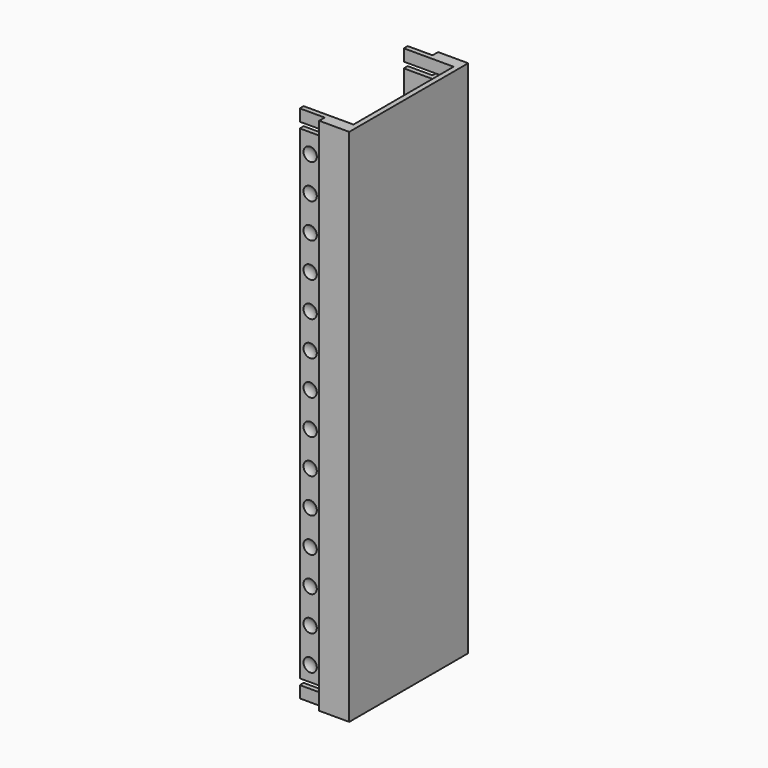
from build123d import *

# Parameters (mm, degrees)
EXTRUDE012_DEPTH           = 4
EXTRUDE012_PLACEMENT_ANGLE = 90
EXTRUDE013_DEPTH           = 4
EXTRUDE013_PLACEMENT_ANGLE = 180
EXTRUDE010_DEPTH           = 4
EXTRUDE010_PLACEMENT_ANGLE = 90
EXTRUDE011_DEPTH           = 4
EXTRUDE011_PLACEMENT_ANGLE = 180
BOX010_W                   = 10
BOX010_H                   = 10
BOX010_DEPTH               = 10
BOX014_W                   = 10
BOX014_H                   = 10
BOX014_DEPTH               = 10
BOX016_W                   = 10
BOX016_H                   = 10
BOX016_DEPTH               = 10
BOX019_W                   = 10
BOX019_H                   = 10
BOX019_DEPTH               = 10
BOX015_W                   = 10
BOX015_H                   = 10
BOX015_DEPTH               = 10
BOX012_W                   = 10
BOX012_H                   = 10
BOX012_DEPTH               = 10
BOX017_W                   = 10
BOX017_H                   = 10
BOX017_DEPTH               = 10
BOX018_W                   = 10
BOX018_H                   = 10
BOX018_DEPTH               = 10
BOX020_W                   = 10
BOX020_H                   = 10
BOX020_DEPTH               = 10
BOX009_W                   = 10
BOX009_H                   = 10
BOX009_DEPTH               = 10
BOX011_W                   = 10
BOX011_H                   = 10
BOX011_DEPTH               = 10
BOX013_W                   = 10
BOX013_H                   = 10
BOX013_DEPTH               = 10
BOX021_W                   = 10
BOX021_H                   = 10
BOX021_DEPTH               = 10
BOX008_W                   = 10
BOX008_H                   = 10
BOX008_DEPTH               = 10
BOX043_W                   = 10
BOX043_H                   = 10
BOX043_DEPTH               = 10
BOX046_W                   = 10
BOX046_H                   = 10
BOX046_DEPTH               = 10
BOX041_W                   = 10
BOX041_H                   = 10
BOX041_DEPTH               = 10
BOX037_W                   = 10
BOX037_H                   = 10
BOX037_DEPTH               = 10
BOX038_W                   = 10
BOX038_H                   = 10
BOX038_DEPTH               = 10
BOX047_W                   = 10
BOX047_H                   = 10
BOX047_DEPTH               = 10
BOX036_W                   = 10
BOX036_H                   = 10
BOX036_DEPTH               = 10
BOX039_W                   = 10
BOX039_H                   = 10
BOX039_DEPTH               = 10
BOX040_W                   = 10
BOX040_H                   = 10
BOX040_DEPTH               = 10
BOX042_W                   = 10
BOX042_H                   = 10
BOX042_DEPTH               = 10
BOX049_W                   = 10
BOX049_H                   = 10
BOX049_DEPTH               = 10
BOX048_W                   = 10
BOX048_H                   = 10
BOX048_DEPTH               = 10
BOX045_W                   = 10
BOX045_H                   = 10
BOX045_DEPTH               = 10
BOX044_W                   = 10
BOX044_H                   = 10
BOX044_DEPTH               = 10
FUSION011_PLACEMENT_ANGLE  = 180
EXTRUDE005_DEPTH           = 140
EXTRUDE006_DEPTH           = 3.4
EXTRUDE001_DEPTH           = 3.4
EXTRUDE002_DEPTH           = 150.2


with BuildPart() as extrude012:
    # Sketch011 → Extrude012 (new body)
    with BuildSketch(Plane.XY):
        Polygon((0, 0), (5, 0), (0, 5), align=None)
    extrude(amount=EXTRUDE012_DEPTH)


with BuildPart() as extrude012_1:
    # Extrude012 placement: moved
    add(extrude012.part.moved(Location((10, -19, 1.6))).rotate(Axis((10, -19, 1.6), (0, 0, 1)), EXTRUDE012_PLACEMENT_ANGLE))


with BuildPart() as obj1:
    # Sketch011 → Extrude013 (new body)
    with BuildSketch(Plane.XY):
        Polygon((0, 0), (5, 0), (0, 5), align=None)
    extrude(amount=EXTRUDE013_DEPTH)


with BuildPart() as obj1_1:
    # Extrude013 placement: moved
    add(obj1.part.moved(Location((10, 19, 1.6))).rotate(Axis((10, 19, 1.6), (0, 0, 1)), EXTRUDE013_PLACEMENT_ANGLE))

    # Fusion025: union Extrude012
    add(extrude012_1.part)


with BuildPart() as obj1_2:
    # Fusion025 placement: moved
    add(obj1_1.part.moved(Location((0, 0, 136))))


with BuildPart() as extrude010:
    # Sketch010 (on Cut) → Extrude010 (new body)
    with BuildSketch(Plane.XY):
        Polygon((0, 0), (5, 0), (0, 5), align=None)
    extrude(amount=EXTRUDE010_DEPTH)


with BuildPart() as extrude010_1:
    # Extrude010 placement: moved
    add(extrude010.part.moved(Location((10, -19, 1.6))).rotate(Axis((10, -19, 1.6), (0, 0, 1)), EXTRUDE010_PLACEMENT_ANGLE))


with BuildPart() as obj2:
    # Sketch010 (on Cut) → Extrude011 (new body)
    with BuildSketch(Plane.XY):
        Polygon((0, 0), (5, 0), (0, 5), align=None)
    extrude(amount=EXTRUDE011_DEPTH)


with BuildPart() as obj2_1:
    # Extrude011 placement: moved
    add(obj2.part.moved(Location((10, 19, 1.6))).rotate(Axis((10, 19, 1.6), (0, 0, 1)), EXTRUDE011_PLACEMENT_ANGLE))

    # Fusion019: union Extrude010
    add(extrude010_1.part)


with BuildPart() as cube008:
    # Box010 → Box010 (new body)
    with BuildSketch(Plane(origin=(-6, 20.5, 0), x_dir=(1, 0, 0), z_dir=(0, 0, 1))):
        with Locations((5, 5)):
            Rectangle(BOX010_W, BOX010_H)
    extrude(amount=BOX010_DEPTH)


with BuildPart() as obj3:
    # Sphere003 → Sphere003 (revolve)
    with BuildSketch(Plane(origin=(-1, 21.8, 6), x_dir=(1, 0, 0), z_dir=(0, -1, 0))):
        with BuildLine():
            ThreePointArc((0, -3), (3, 0), (0, 3))
            Line((0, 3), (0, -3))
        make_face()
    revolve(axis=Axis((-1, 21.8, 6), (0, 0, 1)))

    # Cut004: cut Cube008
    add(cube008.part, mode=Mode.SUBTRACT)


with BuildPart() as obj3_1:
    # Cut004 placement: moved
    add(obj3.part.moved(Location((0, 0, 20))))


with BuildPart() as cube012:
    # Box014 → Box014 (new body)
    with BuildSketch(Plane(origin=(-6, 20.5, 0), x_dir=(1, 0, 0), z_dir=(0, 0, 1))):
        with Locations((5, 5)):
            Rectangle(BOX014_W, BOX014_H)
    extrude(amount=BOX014_DEPTH)


with BuildPart() as obj4:
    # Sphere007 → Sphere007 (revolve)
    with BuildSketch(Plane(origin=(-1, 21.8, 6), x_dir=(1, 0, 0), z_dir=(0, -1, 0))):
        with BuildLine():
            ThreePointArc((0, -3), (3, 0), (0, 3))
            Line((0, 3), (0, -3))
        make_face()
    revolve(axis=Axis((-1, 21.8, 6), (0, 0, 1)))

    # Cut008: cut Cube012
    add(cube012.part, mode=Mode.SUBTRACT)


with BuildPart() as obj4_1:
    # Cut008 placement: moved
    add(obj4.part.moved(Location((0, 0, 60))))


with BuildPart() as cube014:
    # Box016 → Box016 (new body)
    with BuildSketch(Plane(origin=(-6, 20.5, 0), x_dir=(1, 0, 0), z_dir=(0, 0, 1))):
        with Locations((5, 5)):
            Rectangle(BOX016_W, BOX016_H)
    extrude(amount=BOX016_DEPTH)


with BuildPart() as obj5:
    # Sphere009 → Sphere009 (revolve)
    with BuildSketch(Plane(origin=(-1, 21.8, 6), x_dir=(1, 0, 0), z_dir=(0, -1, 0))):
        with BuildLine():
            ThreePointArc((0, -3), (3, 0), (0, 3))
            Line((0, 3), (0, -3))
        make_face()
    revolve(axis=Axis((-1, 21.8, 6), (0, 0, 1)))

    # Cut010: cut Cube014
    add(cube014.part, mode=Mode.SUBTRACT)


with BuildPart() as obj5_1:
    # Cut010 placement: moved
    add(obj5.part.moved(Location((0, 0, 80))))


with BuildPart() as cube017:
    # Box019 → Box019 (new body)
    with BuildSketch(Plane(origin=(-6, 20.5, 0), x_dir=(1, 0, 0), z_dir=(0, 0, 1))):
        with Locations((5, 5)):
            Rectangle(BOX019_W, BOX019_H)
    extrude(amount=BOX019_DEPTH)


with BuildPart() as obj6:
    # Sphere012 → Sphere012 (revolve)
    with BuildSketch(Plane(origin=(-1, 21.8, 6), x_dir=(1, 0, 0), z_dir=(0, -1, 0))):
        with BuildLine():
            ThreePointArc((0, -3), (3, 0), (0, 3))
            Line((0, 3), (0, -3))
        make_face()
    revolve(axis=Axis((-1, 21.8, 6), (0, 0, 1)))

    # Cut013: cut Cube017
    add(cube017.part, mode=Mode.SUBTRACT)


with BuildPart() as obj6_1:
    # Cut013 placement: moved
    add(obj6.part.moved(Location((0, 0, 110))))


with BuildPart() as cube013:
    # Box015 → Box015 (new body)
    with BuildSketch(Plane(origin=(-6, 20.5, 0), x_dir=(1, 0, 0), z_dir=(0, 0, 1))):
        with Locations((5, 5)):
            Rectangle(BOX015_W, BOX015_H)
    extrude(amount=BOX015_DEPTH)


with BuildPart() as obj7:
    # Sphere008 → Sphere008 (revolve)
    with BuildSketch(Plane(origin=(-1, 21.8, 6), x_dir=(1, 0, 0), z_dir=(0, -1, 0))):
        with BuildLine():
            ThreePointArc((0, -3), (3, 0), (0, 3))
            Line((0, 3), (0, -3))
        make_face()
    revolve(axis=Axis((-1, 21.8, 6), (0, 0, 1)))

    # Cut009: cut Cube013
    add(cube013.part, mode=Mode.SUBTRACT)


with BuildPart() as obj7_1:
    # Cut009 placement: moved
    add(obj7.part.moved(Location((0, 0, 70))))


with BuildPart() as cube010:
    # Box012 → Box012 (new body)
    with BuildSketch(Plane(origin=(-6, 20.5, 0), x_dir=(1, 0, 0), z_dir=(0, 0, 1))):
        with Locations((5, 5)):
            Rectangle(BOX012_W, BOX012_H)
    extrude(amount=BOX012_DEPTH)


with BuildPart() as obj8:
    # Sphere005 → Sphere005 (revolve)
    with BuildSketch(Plane(origin=(-1, 21.8, 6), x_dir=(1, 0, 0), z_dir=(0, -1, 0))):
        with BuildLine():
            ThreePointArc((0, -3), (3, 0), (0, 3))
            Line((0, 3), (0, -3))
        make_face()
    revolve(axis=Axis((-1, 21.8, 6), (0, 0, 1)))

    # Cut006: cut Cube010
    add(cube010.part, mode=Mode.SUBTRACT)


with BuildPart() as obj8_1:
    # Cut006 placement: moved
    add(obj8.part.moved(Location((0, 0, 40))))


with BuildPart() as cube015:
    # Box017 → Box017 (new body)
    with BuildSketch(Plane(origin=(-6, 20.5, 0), x_dir=(1, 0, 0), z_dir=(0, 0, 1))):
        with Locations((5, 5)):
            Rectangle(BOX017_W, BOX017_H)
    extrude(amount=BOX017_DEPTH)


with BuildPart() as obj9:
    # Sphere010 → Sphere010 (revolve)
    with BuildSketch(Plane(origin=(-1, 21.8, 6), x_dir=(1, 0, 0), z_dir=(0, -1, 0))):
        with BuildLine():
            ThreePointArc((0, -3), (3, 0), (0, 3))
            Line((0, 3), (0, -3))
        make_face()
    revolve(axis=Axis((-1, 21.8, 6), (0, 0, 1)))

    # Cut011: cut Cube015
    add(cube015.part, mode=Mode.SUBTRACT)


with BuildPart() as obj9_1:
    # Cut011 placement: moved
    add(obj9.part.moved(Location((0, 0, 90))))


with BuildPart() as cube016:
    # Box018 → Box018 (new body)
    with BuildSketch(Plane(origin=(-6, 20.5, 0), x_dir=(1, 0, 0), z_dir=(0, 0, 1))):
        with Locations((5, 5)):
            Rectangle(BOX018_W, BOX018_H)
    extrude(amount=BOX018_DEPTH)


with BuildPart() as obj10:
    # Sphere011 → Sphere011 (revolve)
    with BuildSketch(Plane(origin=(-1, 21.8, 6), x_dir=(1, 0, 0), z_dir=(0, -1, 0))):
        with BuildLine():
            ThreePointArc((0, -3), (3, 0), (0, 3))
            Line((0, 3), (0, -3))
        make_face()
    revolve(axis=Axis((-1, 21.8, 6), (0, 0, 1)))

    # Cut012: cut Cube016
    add(cube016.part, mode=Mode.SUBTRACT)


with BuildPart() as obj10_1:
    # Cut012 placement: moved
    add(obj10.part.moved(Location((0, 0, 100))))


with BuildPart() as cube018:
    # Box020 → Box020 (new body)
    with BuildSketch(Plane(origin=(-6, 20.5, 0), x_dir=(1, 0, 0), z_dir=(0, 0, 1))):
        with Locations((5, 5)):
            Rectangle(BOX020_W, BOX020_H)
    extrude(amount=BOX020_DEPTH)


with BuildPart() as obj11:
    # Sphere013 → Sphere013 (revolve)
    with BuildSketch(Plane(origin=(-1, 21.8, 6), x_dir=(1, 0, 0), z_dir=(0, -1, 0))):
        with BuildLine():
            ThreePointArc((0, -3), (3, 0), (0, 3))
            Line((0, 3), (0, -3))
        make_face()
    revolve(axis=Axis((-1, 21.8, 6), (0, 0, 1)))

    # Cut014: cut Cube018
    add(cube018.part, mode=Mode.SUBTRACT)


with BuildPart() as obj11_1:
    # Cut014 placement: moved
    add(obj11.part.moved(Location((0, 0, 120))))


with BuildPart() as cube007:
    # Box009 → Box009 (new body)
    with BuildSketch(Plane(origin=(-6, 20.5, 0), x_dir=(1, 0, 0), z_dir=(0, 0, 1))):
        with Locations((5, 5)):
            Rectangle(BOX009_W, BOX009_H)
    extrude(amount=BOX009_DEPTH)


with BuildPart() as obj12:
    # Sphere002 → Sphere002 (revolve)
    with BuildSketch(Plane(origin=(-1, 21.8, 6), x_dir=(1, 0, 0), z_dir=(0, -1, 0))):
        with BuildLine():
            ThreePointArc((0, -3), (3, 0), (0, 3))
            Line((0, 3), (0, -3))
        make_face()
    revolve(axis=Axis((-1, 21.8, 6), (0, 0, 1)))

    # Cut003: cut Cube007
    add(cube007.part, mode=Mode.SUBTRACT)


with BuildPart() as obj12_1:
    # Cut003 placement: moved
    add(obj12.part.moved(Location((0, 0, 10))))


with BuildPart() as cube009:
    # Box011 → Box011 (new body)
    with BuildSketch(Plane(origin=(-6, 20.5, 0), x_dir=(1, 0, 0), z_dir=(0, 0, 1))):
        with Locations((5, 5)):
            Rectangle(BOX011_W, BOX011_H)
    extrude(amount=BOX011_DEPTH)


with BuildPart() as obj13:
    # Sphere004 → Sphere004 (revolve)
    with BuildSketch(Plane(origin=(-1, 21.8, 6), x_dir=(1, 0, 0), z_dir=(0, -1, 0))):
        with BuildLine():
            ThreePointArc((0, -3), (3, 0), (0, 3))
            Line((0, 3), (0, -3))
        make_face()
    revolve(axis=Axis((-1, 21.8, 6), (0, 0, 1)))

    # Cut005: cut Cube009
    add(cube009.part, mode=Mode.SUBTRACT)


with BuildPart() as obj13_1:
    # Cut005 placement: moved
    add(obj13.part.moved(Location((0, 0, 30))))


with BuildPart() as cube011:
    # Box013 → Box013 (new body)
    with BuildSketch(Plane(origin=(-6, 20.5, 0), x_dir=(1, 0, 0), z_dir=(0, 0, 1))):
        with Locations((5, 5)):
            Rectangle(BOX013_W, BOX013_H)
    extrude(amount=BOX013_DEPTH)


with BuildPart() as obj14:
    # Sphere006 → Sphere006 (revolve)
    with BuildSketch(Plane(origin=(-1, 21.8, 6), x_dir=(1, 0, 0), z_dir=(0, -1, 0))):
        with BuildLine():
            ThreePointArc((0, -3), (3, 0), (0, 3))
            Line((0, 3), (0, -3))
        make_face()
    revolve(axis=Axis((-1, 21.8, 6), (0, 0, 1)))

    # Cut007: cut Cube011
    add(cube011.part, mode=Mode.SUBTRACT)


with BuildPart() as obj14_1:
    # Cut007 placement: moved
    add(obj14.part.moved(Location((0, 0, 50))))


with BuildPart() as cube019:
    # Box021 → Box021 (new body)
    with BuildSketch(Plane(origin=(-6, 20.5, 0), x_dir=(1, 0, 0), z_dir=(0, 0, 1))):
        with Locations((5, 5)):
            Rectangle(BOX021_W, BOX021_H)
    extrude(amount=BOX021_DEPTH)


with BuildPart() as obj15:
    # Sphere014 → Sphere014 (revolve)
    with BuildSketch(Plane(origin=(-1, 21.8, 6), x_dir=(1, 0, 0), z_dir=(0, -1, 0))):
        with BuildLine():
            ThreePointArc((0, -3), (3, 0), (0, 3))
            Line((0, 3), (0, -3))
        make_face()
    revolve(axis=Axis((-1, 21.8, 6), (0, 0, 1)))

    # Cut015: cut Cube019
    add(cube019.part, mode=Mode.SUBTRACT)


with BuildPart() as obj15_1:
    # Cut015 placement: moved
    add(obj15.part.moved(Location((0, 0, 130))))


with BuildPart() as cube006:
    # Box008 → Box008 (new body)
    with BuildSketch(Plane(origin=(-6, 20.5, 0), x_dir=(1, 0, 0), z_dir=(0, 0, 1))):
        with Locations((5, 5)):
            Rectangle(BOX008_W, BOX008_H)
    extrude(amount=BOX008_DEPTH)


with BuildPart() as obj16:
    # Sphere001 → Sphere001 (revolve)
    with BuildSketch(Plane(origin=(-1, 21.8, 6), x_dir=(1, 0, 0), z_dir=(0, -1, 0))):
        with BuildLine():
            ThreePointArc((0, -3), (3, 0), (0, 3))
            Line((0, 3), (0, -3))
        make_face()
    revolve(axis=Axis((-1, 21.8, 6), (0, 0, 1)))

    # Cut002: cut Cube006
    add(cube006.part, mode=Mode.SUBTRACT)

    # Fusion009: union obj3, obj4, obj5, obj6, obj7, obj8, obj9, obj10, obj11, obj12, obj13, obj14, obj15
    add(obj3_1.part)
    add(obj4_1.part)
    add(obj5_1.part)
    add(obj6_1.part)
    add(obj7_1.part)
    add(obj8_1.part)
    add(obj9_1.part)
    add(obj10_1.part)
    add(obj11_1.part)
    add(obj12_1.part)
    add(obj13_1.part)
    add(obj14_1.part)
    add(obj15_1.part)


with BuildPart() as cube041:
    # Box043 → Box043 (new body)
    with BuildSketch(Plane(origin=(-6, 20.5, 0), x_dir=(1, 0, 0), z_dir=(0, 0, 1))):
        with Locations((5, 5)):
            Rectangle(BOX043_W, BOX043_H)
    extrude(amount=BOX043_DEPTH)


with BuildPart() as obj17:
    # Sphere038 → Sphere038 (revolve)
    with BuildSketch(Plane(origin=(-1, 21.8, 6), x_dir=(1, 0, 0), z_dir=(0, -1, 0))):
        with BuildLine():
            ThreePointArc((0, -3), (3, 0), (0, 3))
            Line((0, 3), (0, -3))
        make_face()
    revolve(axis=Axis((-1, 21.8, 6), (0, 0, 1)))

    # Cut030: cut Cube041
    add(cube041.part, mode=Mode.SUBTRACT)


with BuildPart() as obj17_1:
    # Cut030 placement: moved
    add(obj17.part.moved(Location((0, 0, 20))))


with BuildPart() as cube044:
    # Box046 → Box046 (new body)
    with BuildSketch(Plane(origin=(-6, 20.5, 0), x_dir=(1, 0, 0), z_dir=(0, 0, 1))):
        with Locations((5, 5)):
            Rectangle(BOX046_W, BOX046_H)
    extrude(amount=BOX046_DEPTH)


with BuildPart() as obj18:
    # Sphere039 → Sphere039 (revolve)
    with BuildSketch(Plane(origin=(-1, 21.8, 6), x_dir=(1, 0, 0), z_dir=(0, -1, 0))):
        with BuildLine():
            ThreePointArc((0, -3), (3, 0), (0, 3))
            Line((0, 3), (0, -3))
        make_face()
    revolve(axis=Axis((-1, 21.8, 6), (0, 0, 1)))

    # Cut031: cut Cube044
    add(cube044.part, mode=Mode.SUBTRACT)


with BuildPart() as obj18_1:
    # Cut031 placement: moved
    add(obj18.part.moved(Location((0, 0, 60))))


with BuildPart() as cube039:
    # Box041 → Box041 (new body)
    with BuildSketch(Plane(origin=(-6, 20.5, 0), x_dir=(1, 0, 0), z_dir=(0, 0, 1))):
        with Locations((5, 5)):
            Rectangle(BOX041_W, BOX041_H)
    extrude(amount=BOX041_DEPTH)


with BuildPart() as obj19:
    # Sphere032 → Sphere032 (revolve)
    with BuildSketch(Plane(origin=(-1, 21.8, 6), x_dir=(1, 0, 0), z_dir=(0, -1, 0))):
        with BuildLine():
            ThreePointArc((0, -3), (3, 0), (0, 3))
            Line((0, 3), (0, -3))
        make_face()
    revolve(axis=Axis((-1, 21.8, 6), (0, 0, 1)))

    # Cut032: cut Cube039
    add(cube039.part, mode=Mode.SUBTRACT)


with BuildPart() as obj19_1:
    # Cut032 placement: moved
    add(obj19.part.moved(Location((0, 0, 80))))


with BuildPart() as cube035:
    # Box037 → Box037 (new body)
    with BuildSketch(Plane(origin=(-6, 20.5, 0), x_dir=(1, 0, 0), z_dir=(0, 0, 1))):
        with Locations((5, 5)):
            Rectangle(BOX037_W, BOX037_H)
    extrude(amount=BOX037_DEPTH)


with BuildPart() as obj20:
    # Sphere030 → Sphere030 (revolve)
    with BuildSketch(Plane(origin=(-1, 21.8, 6), x_dir=(1, 0, 0), z_dir=(0, -1, 0))):
        with BuildLine():
            ThreePointArc((0, -3), (3, 0), (0, 3))
            Line((0, 3), (0, -3))
        make_face()
    revolve(axis=Axis((-1, 21.8, 6), (0, 0, 1)))

    # Cut033: cut Cube035
    add(cube035.part, mode=Mode.SUBTRACT)


with BuildPart() as obj20_1:
    # Cut033 placement: moved
    add(obj20.part.moved(Location((0, 0, 110))))


with BuildPart() as cube036:
    # Box038 → Box038 (new body)
    with BuildSketch(Plane(origin=(-6, 20.5, 0), x_dir=(1, 0, 0), z_dir=(0, 0, 1))):
        with Locations((5, 5)):
            Rectangle(BOX038_W, BOX038_H)
    extrude(amount=BOX038_DEPTH)


with BuildPart() as obj21:
    # Sphere034 → Sphere034 (revolve)
    with BuildSketch(Plane(origin=(-1, 21.8, 6), x_dir=(1, 0, 0), z_dir=(0, -1, 0))):
        with BuildLine():
            ThreePointArc((0, -3), (3, 0), (0, 3))
            Line((0, 3), (0, -3))
        make_face()
    revolve(axis=Axis((-1, 21.8, 6), (0, 0, 1)))

    # Cut034: cut Cube036
    add(cube036.part, mode=Mode.SUBTRACT)


with BuildPart() as obj21_1:
    # Cut034 placement: moved
    add(obj21.part.moved(Location((0, 0, 70))))


with BuildPart() as cube045:
    # Box047 → Box047 (new body)
    with BuildSketch(Plane(origin=(-6, 20.5, 0), x_dir=(1, 0, 0), z_dir=(0, 0, 1))):
        with Locations((5, 5)):
            Rectangle(BOX047_W, BOX047_H)
    extrude(amount=BOX047_DEPTH)


with BuildPart() as obj22:
    # Sphere035 → Sphere035 (revolve)
    with BuildSketch(Plane(origin=(-1, 21.8, 6), x_dir=(1, 0, 0), z_dir=(0, -1, 0))):
        with BuildLine():
            ThreePointArc((0, -3), (3, 0), (0, 3))
            Line((0, 3), (0, -3))
        make_face()
    revolve(axis=Axis((-1, 21.8, 6), (0, 0, 1)))

    # Cut035: cut Cube045
    add(cube045.part, mode=Mode.SUBTRACT)


with BuildPart() as obj22_1:
    # Cut035 placement: moved
    add(obj22.part.moved(Location((0, 0, 40))))


with BuildPart() as cube034:
    # Box036 → Box036 (new body)
    with BuildSketch(Plane(origin=(-6, 20.5, 0), x_dir=(1, 0, 0), z_dir=(0, 0, 1))):
        with Locations((5, 5)):
            Rectangle(BOX036_W, BOX036_H)
    extrude(amount=BOX036_DEPTH)


with BuildPart() as obj23:
    # Sphere029 → Sphere029 (revolve)
    with BuildSketch(Plane(origin=(-1, 21.8, 6), x_dir=(1, 0, 0), z_dir=(0, -1, 0))):
        with BuildLine():
            ThreePointArc((0, -3), (3, 0), (0, 3))
            Line((0, 3), (0, -3))
        make_face()
    revolve(axis=Axis((-1, 21.8, 6), (0, 0, 1)))

    # Cut036: cut Cube034
    add(cube034.part, mode=Mode.SUBTRACT)


with BuildPart() as obj23_1:
    # Cut036 placement: moved
    add(obj23.part.moved(Location((0, 0, 90))))


with BuildPart() as cube037:
    # Box039 → Box039 (new body)
    with BuildSketch(Plane(origin=(-6, 20.5, 0), x_dir=(1, 0, 0), z_dir=(0, 0, 1))):
        with Locations((5, 5)):
            Rectangle(BOX039_W, BOX039_H)
    extrude(amount=BOX039_DEPTH)


with BuildPart() as obj24:
    # Sphere031 → Sphere031 (revolve)
    with BuildSketch(Plane(origin=(-1, 21.8, 6), x_dir=(1, 0, 0), z_dir=(0, -1, 0))):
        with BuildLine():
            ThreePointArc((0, -3), (3, 0), (0, 3))
            Line((0, 3), (0, -3))
        make_face()
    revolve(axis=Axis((-1, 21.8, 6), (0, 0, 1)))

    # Cut037: cut Cube037
    add(cube037.part, mode=Mode.SUBTRACT)


with BuildPart() as obj24_1:
    # Cut037 placement: moved
    add(obj24.part.moved(Location((0, 0, 100))))


with BuildPart() as cube038:
    # Box040 → Box040 (new body)
    with BuildSketch(Plane(origin=(-6, 20.5, 0), x_dir=(1, 0, 0), z_dir=(0, 0, 1))):
        with Locations((5, 5)):
            Rectangle(BOX040_W, BOX040_H)
    extrude(amount=BOX040_DEPTH)


with BuildPart() as obj25:
    # Sphere033 → Sphere033 (revolve)
    with BuildSketch(Plane(origin=(-1, 21.8, 6), x_dir=(1, 0, 0), z_dir=(0, -1, 0))):
        with BuildLine():
            ThreePointArc((0, -3), (3, 0), (0, 3))
            Line((0, 3), (0, -3))
        make_face()
    revolve(axis=Axis((-1, 21.8, 6), (0, 0, 1)))

    # Cut039: cut Cube038
    add(cube038.part, mode=Mode.SUBTRACT)


with BuildPart() as obj25_1:
    # Cut039 placement: moved
    add(obj25.part.moved(Location((0, 0, 120))))


with BuildPart() as cube040:
    # Box042 → Box042 (new body)
    with BuildSketch(Plane(origin=(-6, 20.5, 0), x_dir=(1, 0, 0), z_dir=(0, 0, 1))):
        with Locations((5, 5)):
            Rectangle(BOX042_W, BOX042_H)
    extrude(amount=BOX042_DEPTH)


with BuildPart() as obj26:
    # Sphere041 → Sphere041 (revolve)
    with BuildSketch(Plane(origin=(-1, 21.8, 6), x_dir=(1, 0, 0), z_dir=(0, -1, 0))):
        with BuildLine():
            ThreePointArc((0, -3), (3, 0), (0, 3))
            Line((0, 3), (0, -3))
        make_face()
    revolve(axis=Axis((-1, 21.8, 6), (0, 0, 1)))

    # Cut040: cut Cube040
    add(cube040.part, mode=Mode.SUBTRACT)


with BuildPart() as obj26_1:
    # Cut040 placement: moved
    add(obj26.part.moved(Location((0, 0, 10))))


with BuildPart() as cube047:
    # Box049 → Box049 (new body)
    with BuildSketch(Plane(origin=(-6, 20.5, 0), x_dir=(1, 0, 0), z_dir=(0, 0, 1))):
        with Locations((5, 5)):
            Rectangle(BOX049_W, BOX049_H)
    extrude(amount=BOX049_DEPTH)


with BuildPart() as obj27:
    # Sphere036 → Sphere036 (revolve)
    with BuildSketch(Plane(origin=(-1, 21.8, 6), x_dir=(1, 0, 0), z_dir=(0, -1, 0))):
        with BuildLine():
            ThreePointArc((0, -3), (3, 0), (0, 3))
            Line((0, 3), (0, -3))
        make_face()
    revolve(axis=Axis((-1, 21.8, 6), (0, 0, 1)))

    # Cut041: cut Cube047
    add(cube047.part, mode=Mode.SUBTRACT)


with BuildPart() as obj27_1:
    # Cut041 placement: moved
    add(obj27.part.moved(Location((0, 0, 30))))


with BuildPart() as cube046:
    # Box048 → Box048 (new body)
    with BuildSketch(Plane(origin=(-6, 20.5, 0), x_dir=(1, 0, 0), z_dir=(0, 0, 1))):
        with Locations((5, 5)):
            Rectangle(BOX048_W, BOX048_H)
    extrude(amount=BOX048_DEPTH)


with BuildPart() as obj28:
    # Sphere037 → Sphere037 (revolve)
    with BuildSketch(Plane(origin=(-1, 21.8, 6), x_dir=(1, 0, 0), z_dir=(0, -1, 0))):
        with BuildLine():
            ThreePointArc((0, -3), (3, 0), (0, 3))
            Line((0, 3), (0, -3))
        make_face()
    revolve(axis=Axis((-1, 21.8, 6), (0, 0, 1)))

    # Cut042: cut Cube046
    add(cube046.part, mode=Mode.SUBTRACT)


with BuildPart() as obj28_1:
    # Cut042 placement: moved
    add(obj28.part.moved(Location((0, 0, 50))))


with BuildPart() as cube043:
    # Box045 → Box045 (new body)
    with BuildSketch(Plane(origin=(-6, 20.5, 0), x_dir=(1, 0, 0), z_dir=(0, 0, 1))):
        with Locations((5, 5)):
            Rectangle(BOX045_W, BOX045_H)
    extrude(amount=BOX045_DEPTH)


with BuildPart() as obj29:
    # Sphere042 → Sphere042 (revolve)
    with BuildSketch(Plane(origin=(-1, 21.8, 6), x_dir=(1, 0, 0), z_dir=(0, -1, 0))):
        with BuildLine():
            ThreePointArc((0, -3), (3, 0), (0, 3))
            Line((0, 3), (0, -3))
        make_face()
    revolve(axis=Axis((-1, 21.8, 6), (0, 0, 1)))

    # Cut043: cut Cube043
    add(cube043.part, mode=Mode.SUBTRACT)


with BuildPart() as obj29_1:
    # Cut043 placement: moved
    add(obj29.part.moved(Location((0, 0, 130))))


with BuildPart() as cube042:
    # Box044 → Box044 (new body)
    with BuildSketch(Plane(origin=(-6, 20.5, 0), x_dir=(1, 0, 0), z_dir=(0, 0, 1))):
        with Locations((5, 5)):
            Rectangle(BOX044_W, BOX044_H)
    extrude(amount=BOX044_DEPTH)


with BuildPart() as fusion013:
    # Sphere040 → Sphere040 (revolve)
    with BuildSketch(Plane(origin=(-1, 21.8, 6), x_dir=(1, 0, 0), z_dir=(0, -1, 0))):
        with BuildLine():
            ThreePointArc((0, -3), (3, 0), (0, 3))
            Line((0, 3), (0, -3))
        make_face()
    revolve(axis=Axis((-1, 21.8, 6), (0, 0, 1)))

    # Cut038: cut Cube042
    add(cube042.part, mode=Mode.SUBTRACT)

    # Fusion011: union obj17, obj18, obj19, obj20, obj21, obj22, obj23, obj24, obj25, obj26, obj27, obj28, obj29
    add(obj17_1.part)
    add(obj18_1.part)
    add(obj19_1.part)
    add(obj20_1.part)
    add(obj21_1.part)
    add(obj22_1.part)
    add(obj23_1.part)
    add(obj24_1.part)
    add(obj25_1.part)
    add(obj26_1.part)
    add(obj27_1.part)
    add(obj28_1.part)
    add(obj29_1.part)


with BuildPart() as fusion013_1:
    # Fusion011 placement: moved
    add(fusion013.part.moved(Location((-2, 0, 0))).rotate(Axis((-2, 0, 0), (0, 0, 1)), FUSION011_PLACEMENT_ANGLE))

    # Fusion013: union obj16
    add(obj16.part)


with BuildPart() as fusion013_2:
    # Fusion013 placement: moved
    add(fusion013_1.part.moved(Location((-0.4, 0, 0))))


with BuildPart() as corner004:
    # Sketch005 → Extrude005 (new body)
    with BuildSketch(Plane.XY):
        Polygon((-14.4, 18.1), (0, 18.1), (0, -18.1), (-14.4, -18.1), (-14.4, -19.5), (-7.2, -19.5), (-7.2, -21), (1, -21), (1, 21), (-7.2, 21), (-7.2, 19.5), (-14.4, 19.5), align=None)
    extrude(amount=EXTRUDE005_DEPTH)


with BuildPart() as corner004_1:
    # Extrude005 placement: moved
    add(corner004.part.moved(Location((10, 0, 1.6))))


with BuildPart() as corner005:
    # Sketch006 → Extrude006 (new body)
    with BuildSketch(Plane.XY):
        Polygon((-14.4, 18.1), (0, 18.1), (0, -18.1), (-14.4, -18.1), (-14.4, -19.5), (-7.2, -19.5), (-7.2, -21), (1, -21), (1, 21), (-7.2, 21), (-7.2, 19.5), (-14.4, 19.5), align=None)
    extrude(amount=EXTRUDE006_DEPTH)


with BuildPart() as corner005_1:
    # Extrude006 placement: moved
    add(corner005.part.moved(Location((10, 0, 143.3))))


with BuildPart() as rail:
    # Sketch001 → Extrude001 (new body)
    with BuildSketch(Plane.XY):
        Polygon((-14.4, 18.1), (0, 18.1), (0, -18.1), (-14.4, -18.1), (-14.4, -19.5), (-7.2, -19.5), (-7.2, -21), (1, -21), (1, 21), (-7.2, 21), (-7.2, 19.5), (-14.4, 19.5), align=None)
    extrude(amount=EXTRUDE001_DEPTH)


with BuildPart() as rail_1:
    # Extrude001 placement: moved
    add(rail.part.moved(Location((10, 0, -3.5))))

    # Fusion005: union corner004, corner005
    add(corner004_1.part)
    add(corner005_1.part)


with BuildPart() as obj30:
    # Sketch002 → Extrude002 (new body)
    with BuildSketch(Plane(origin=(10, 0, 1.6), x_dir=(1, 0, 0), z_dir=(0, 0, 1))):
        Polygon((-8.2, 21), (0, 21), (0, -21), (-8.2, -21), (-8.2, -21.5), (0.5, -21.5), (0.5, 21.5), (-8.2, 21.5), align=None)
    extrude(amount=EXTRUDE002_DEPTH)


with BuildPart() as obj30_1:
    # Extrude002 placement: moved
    add(obj30.part.moved(Location((1, 0, -5.1))))

    # Fusion006: union rail
    add(rail_1.part)

    # Cut058: cut Fusion013
    add(fusion013_2.part, mode=Mode.SUBTRACT)

    # Fusion026: union obj1, obj2
    add(obj1_2.part)
    add(obj2_1.part)


solid = obj30_1.part
